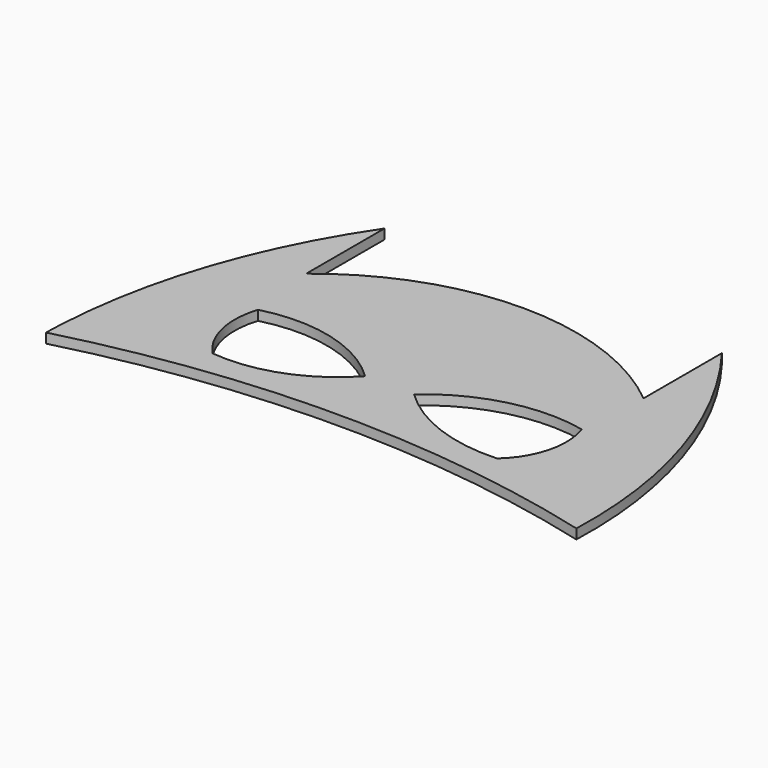
from build123d import *

# Parameters (mm, degrees)
F1_DEPTH = 2.54


with BuildPart() as f1:
    # F0 (on Top) → F1 (new body)
    with BuildSketch(Plane.XY):
        with BuildLine():
            Line((43.749437, 78.443056), (43.749437, 53.043056))
            ThreePointArc((43.749437, 53.043056), (0, 68.757392), (-43.749437, 53.043056))
            Line((-43.749437, 53.043056), (-43.749437, 78.443056))
            ThreePointArc((-43.749437, 78.443056), (-61.039039, 43.704221), (-68.526516, 5.629889))
            ThreePointArc((-68.526516, 5.629889), (-68.669224, 2.816063), (-68.757392, 0))
            ThreePointArc((-68.757392, 0), (0, 8.863591), (68.757392, 0))
            ThreePointArc((68.757392, 0), (63.036034, 41.383854), (43.749437, 78.443056))
        make_face()
        with BuildLine():
            ThreePointArc((-41.490685, 34.609124), (-22.711092, 34.618887), (-6.35, 25.4))
            ThreePointArc((-6.35, 25.4), (-20.155012, 16.046652), (-36.693878, 13.918425))
            ThreePointArc((-36.693878, 13.918425), (-41.957878, 23.599432), (-41.490685, 34.609124))
        make_face(mode=Mode.SUBTRACT)
        with BuildLine():
            ThreePointArc((6.35, 25.4), (23.312752, 34.293354), (42.46287, 34.609124))
            ThreePointArc((42.46287, 34.609124), (42.89388, 23.442443), (37.04806, 13.918425))
            ThreePointArc((37.04806, 13.918425), (20.504402, 16.465159), (6.35, 25.4))
        make_face(mode=Mode.SUBTRACT)
    extrude(amount=F1_DEPTH)


solid = f1.part
